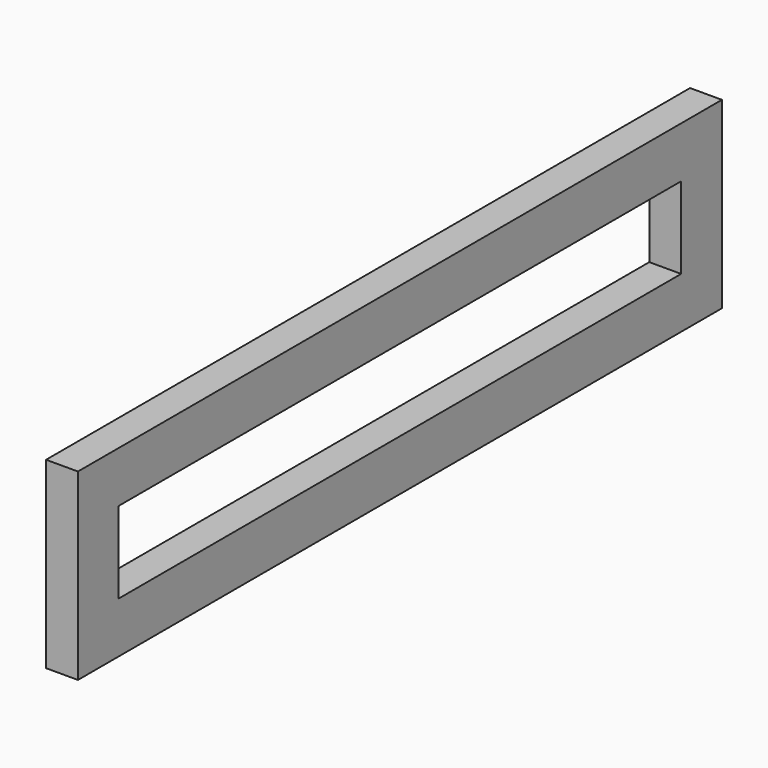
from build123d import *

# Parameters (mm, degrees)
F1_DEPTH = 3.175


with BuildPart() as f1:
    # F0 (on Right) → F1 (new body)
    with BuildSketch(Plane.YZ):
        Polygon((-40.279892, 18.288), (-40.279892, 0), (-1.5875, 0), (1.5875, 0), (39.935863, 0), (39.935863, 18.288), (1.5875, 18.288), (-1.5875, 18.288), align=None)
        Polygon((-1.5875, 5.08), (-35.199892, 5.08), (-35.199892, 13.208), (-1.5875, 13.208), (1.5875, 13.208), (34.855863, 13.208), (34.855863, 5.08), (1.5875, 5.08), align=None, mode=Mode.SUBTRACT)
    extrude(amount=F1_DEPTH)


solid = f1.part
